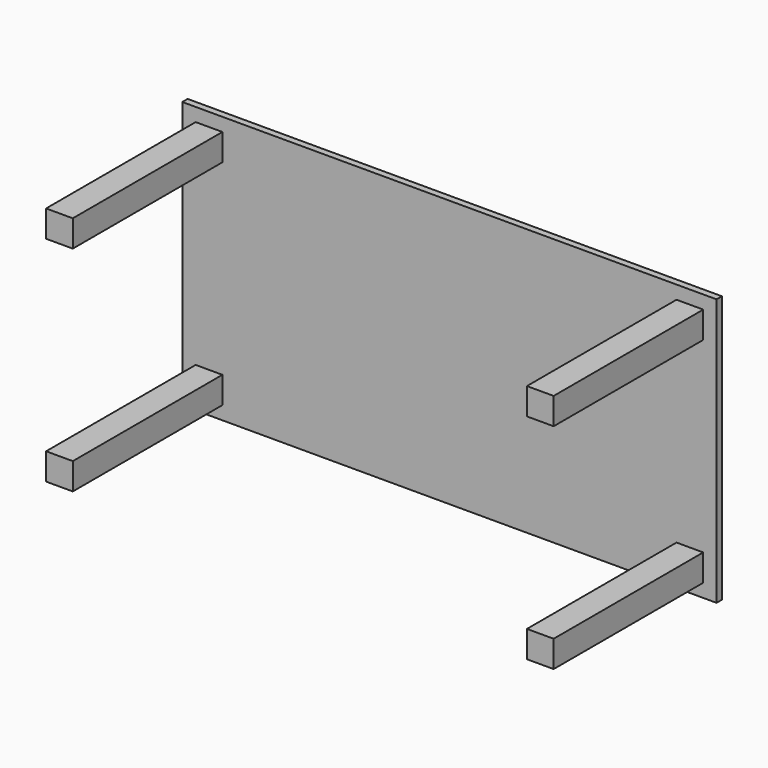
from build123d import *

# Parameters (mm, degrees)
F0_W     = 2000.11918
F0_H     = 1000.30308
F1_DEPTH = 25
F2_W     = 100
F2_H     = 100
F3_DEPTH = 725
F4_W     = 100
F4_H     = 100
F5_DEPTH = 725
F6_W     = 100
F6_H     = 100
F7_DEPTH = 725
F8_W     = 100
F8_H     = 100
F9_DEPTH = 725


with BuildPart() as f1:
    # F0 (on Front) → F1 (new body)
    with BuildSketch(Plane.XZ):
        with Locations((237.646327, 226.105506)):
            Rectangle(F0_W, F0_H)
    extrude(amount=F1_DEPTH)

    # F2 (on Front) → F3 (join)
    with BuildSketch(Plane.XZ):
        with Locations((-662.413263, -174.046034)):
            Rectangle(F2_W, F2_H)
    extrude(amount=F3_DEPTH)

    # F4 (on Front) → F5 (join)
    with BuildSketch(Plane.XZ):
        with Locations((1137.705917, 626.257046)):
            Rectangle(F4_W, F4_H)
    extrude(amount=F5_DEPTH)

    # F8 (on Front) → F9 (join)
    with BuildSketch(Plane.XZ):
        with Locations((1137.705917, -174.046034)):
            Rectangle(F8_W, F8_H)
    extrude(amount=F9_DEPTH)


with BuildPart() as f7:
    # F6 (on Front) → F7 (new body)
    with BuildSketch(Plane.XZ):
        with Locations((-662.413263, 626.257046)):
            Rectangle(F6_W, F6_H)
    extrude(amount=F7_DEPTH)


solid = Compound([f1.part, f7.part])
